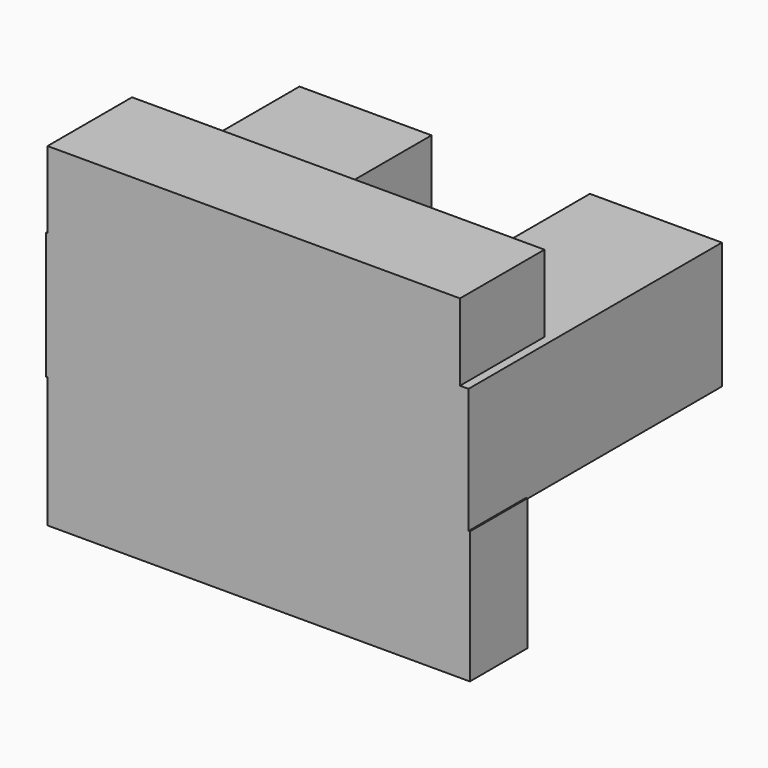
from build123d import *

# Parameters (mm, degrees)
F2_DEPTH = 22.86
F0_W     = 76.2
F0_H     = 23.8252
F3_DEPTH = 12.954
F4_W     = 19.05
F4_H     = 13.8684
F5_DEPTH = 74.422


with BuildPart() as f2:
    # F1 (on Top) → F2 (new body)
    with BuildSketch(Plane.XY):
        Polygon((-47.205903, 57.15), (-47.205903, 0), (29.019497, 0), (29.019497, 57.15), (5.194297, 57.15), (5.194297, 28.575), (-23.380703, 28.575), (-23.380703, 57.15), align=None)
    extrude(amount=-F2_DEPTH)

    # F0 (on Front) → F3 (join)
    with BuildSketch(Plane.XZ):
        with Locations((-8.839202, -34.4932)):
            Rectangle(F0_W, F0_H)
    extrude(amount=-F3_DEPTH)

    # F4 (on face) → F5 (join)
    with BuildSketch(Plane(origin=(-46.939202, 0, 0), x_dir=(0, -1, 0), z_dir=(-1, 0, 0))):
        with Locations((-9.525, 6.9342)):
            Rectangle(F4_W, F4_H)
    extrude(amount=-F5_DEPTH)


solid = f2.part
